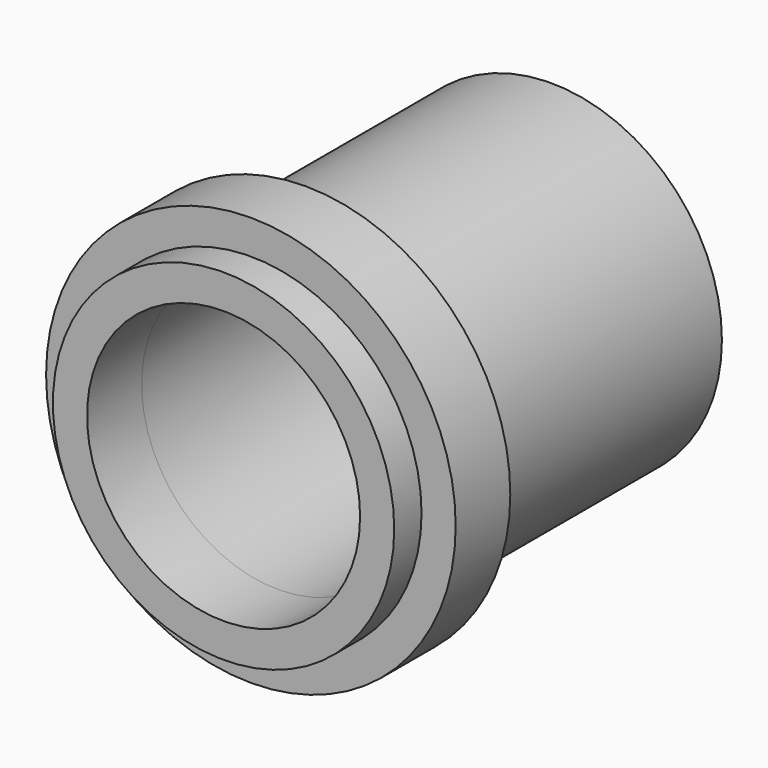
from build123d import *

# Parameters (mm, degrees)
F0_R          = 25
F0_R_2        = 20
F1_DEPTH      = 10
F1_DEPTH_BACK = 50
F2_R          = 30
F2_R_2        = 25
F3_DEPTH      = 5


with BuildPart() as f1:
    # F0 (on Front) → F1 (new body, two sides)
    with BuildSketch(Plane.XZ) as f1_sk:
        Circle(F0_R)
        Circle(F0_R_2, mode=Mode.SUBTRACT)
    extrude(amount=F1_DEPTH)
    extrude(f1_sk.sketch, amount=-F1_DEPTH_BACK)

    # F2 (on Front) → F3 (join, symmetric)
    with BuildSketch(Plane.XZ):
        Circle(F2_R)
        Circle(F2_R_2, mode=Mode.SUBTRACT)
    extrude(amount=F3_DEPTH, both=True)


solid = f1.part
